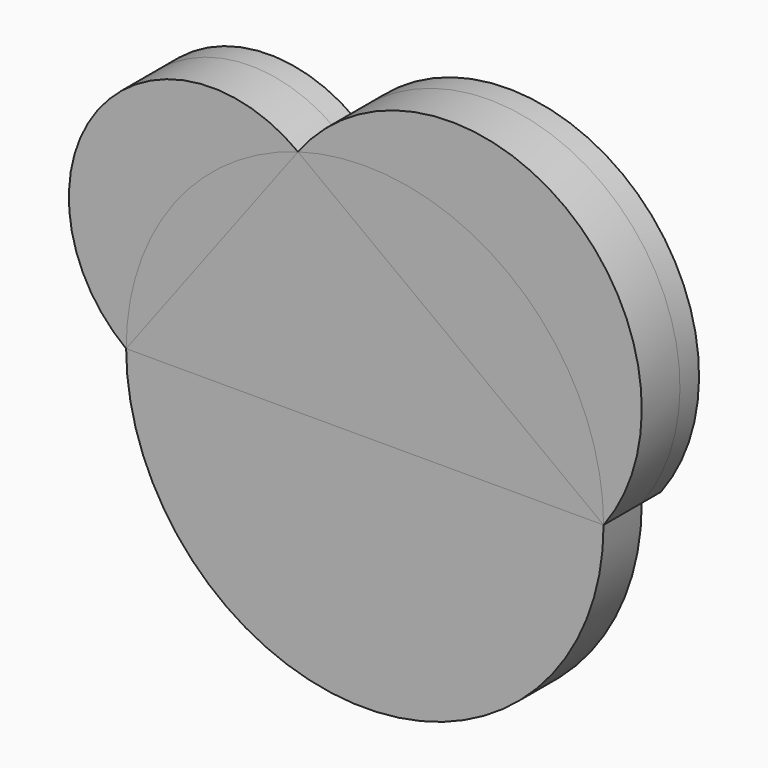
from build123d import *

# Parameters (mm, degrees)
F1_DEPTH = 12.7
F2_DEPTH = 12.7
F3_DEPTH = 6.35


with BuildPart() as f1:
    # F0 (on Front) → F1 (new body)
    with BuildSketch(Plane.XZ):
        Polygon((-63.5, 0), (63.5, 0), (-17.78, 60.96), align=None)
        with BuildLine():
            ThreePointArc((-17.78, 60.96), (38.1, 50.8), (63.5, 0))
            ThreePointArc((63.5, 0), (53.34, 71.12), (-17.78, 60.96))
        make_face()
        with BuildLine():
            ThreePointArc((-63.5, 0), (-50.8, 38.1), (-17.78, 60.96))
            ThreePointArc((-17.78, 60.96), (-71.12, 53.34), (-63.5, 0))
        make_face()
    extrude(amount=F1_DEPTH)


with BuildPart() as f2:
    # F0 (on Front) → F2 (new body)
    with BuildSketch(Plane.XZ):
        with BuildLine():
            ThreePointArc((-63.5, 0), (0, -63.5), (63.5, 0))
            Line((63.5, 0), (-63.5, 0))
        make_face()
        with BuildLine():
            Line((-17.78, 60.96), (63.5, 0))
            ThreePointArc((63.5, 0), (38.1, 50.8), (-17.78, 60.96))
        make_face()
        with BuildLine():
            Line((-63.5, 0), (-17.78, 60.96))
            ThreePointArc((-17.78, 60.96), (-50.8, 38.1), (-63.5, 0))
        make_face()
    extrude(amount=F2_DEPTH)


with BuildPart() as f3:
    # F0 (on Front) → F3 (new body)
    with BuildSketch(Plane.XZ):
        with BuildLine():
            Line((-63.5, 0), (-17.78, 60.96))
            ThreePointArc((-17.78, 60.96), (-50.8, 38.1), (-63.5, 0))
        make_face()
        with BuildLine():
            ThreePointArc((-63.5, 0), (-50.8, 38.1), (-17.78, 60.96))
            ThreePointArc((-17.78, 60.96), (-71.12, 53.34), (-63.5, 0))
        make_face()
        with BuildLine():
            Line((-17.78, 60.96), (63.5, 0))
            ThreePointArc((63.5, 0), (38.1, 50.8), (-17.78, 60.96))
        make_face()
        with BuildLine():
            ThreePointArc((-17.78, 60.96), (38.1, 50.8), (63.5, 0))
            ThreePointArc((63.5, 0), (53.34, 71.12), (-17.78, 60.96))
        make_face()
    extrude(amount=-F3_DEPTH)


solid = Compound([f1.part, f2.part, f3.part])
